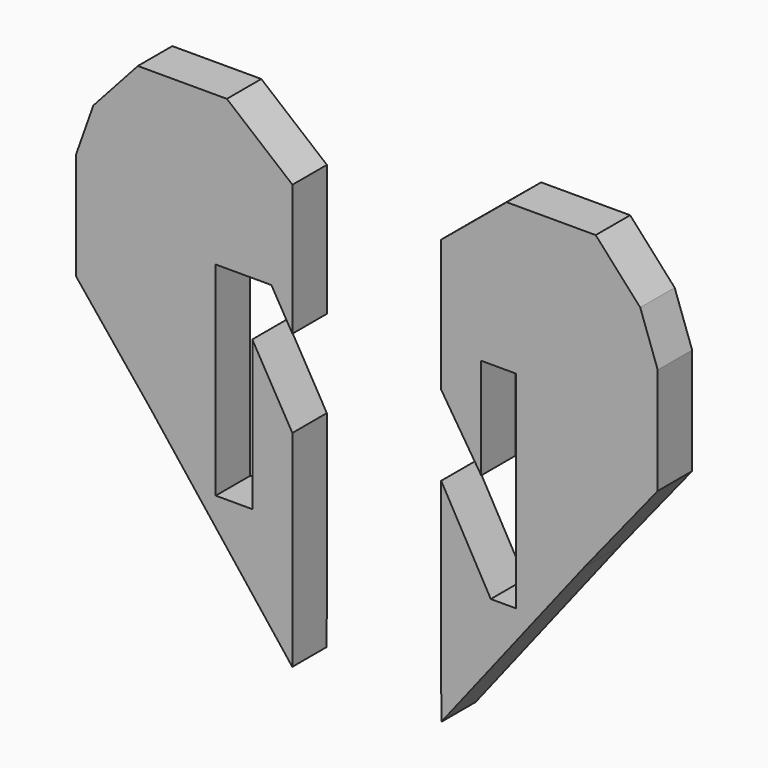
from build123d import *

# Parameters (mm, degrees)
F1_DEPTH = 5.08


with BuildPart() as f1:
    # F0 (on Front) → F1 (new body)
    with BuildSketch(Plane.XZ):
        Polygon((-8.77601, 7.473722), (-8.770414, 22.95414), (-16.508512, 29.358886), (-27.013928, 29.358886), (-32.266635, 23.543388), (-34.3302, 17.727889), (-34.3302, 5.15891), (-25.700752, -5.534103), (-8.788522, -27.139191), (-8.779737, -2.835232), (-13.506964, 5.346506), (-13.506964, -12.287585), (-17.821688, -12.287585), (-17.821688, 11.724795), (-11.255803, 11.724795), align=None)
        Polygon((16.508512, 29.358886), (8.770414, 22.95414), (8.776048, 7.369311), (13.506965, 0), (13.506965, 11.912392), (17.63409, 11.912392), (17.63409, -12.475182), (14.632543, -12.475182), (8.779468, -2.092525), (8.788522, -27.139191), (25.700752, -5.534103), (34.3302, 5.15891), (34.3302, 17.727889), (32.266635, 23.543388), (27.013928, 29.358886), align=None)
    extrude(amount=F1_DEPTH)


solid = f1.part
